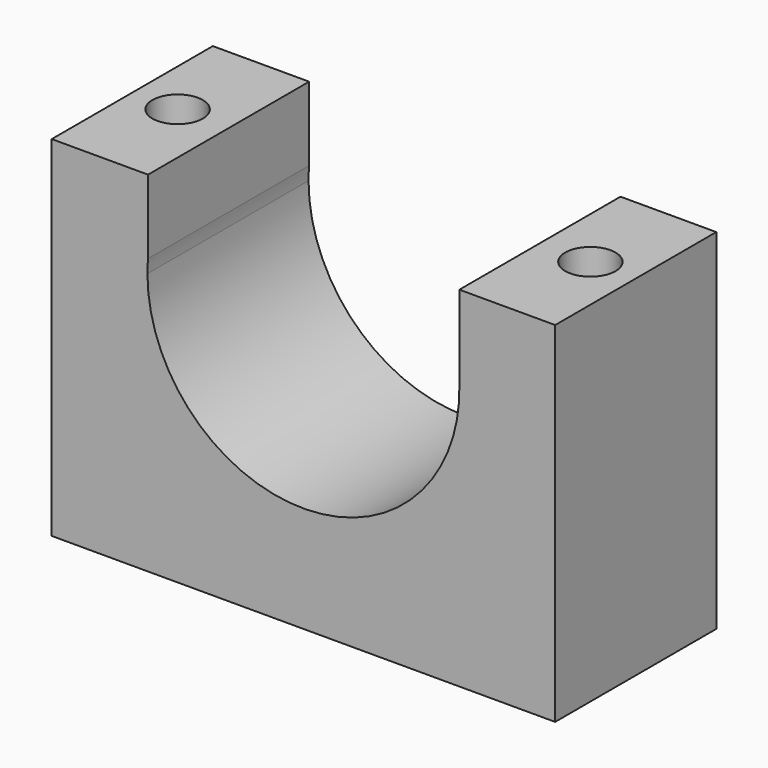
from build123d import *

# Parameters (mm, degrees)
F0_W     = 50
F0_H     = 20
F1_DEPTH = 60
F2_W     = 9
F2_H     = 25.2990102768
F2_W_2   = 32
F3_DEPTH = 25
F4_R     = 2.5
F5_DEPTH = 60
F7_DEPTH = 25
F9_DEPTH = 25


with BuildPart() as f1:
    # F0 (on Top) → F1 (new body)
    with BuildSketch(Plane.XY):
        with Locations((3.2706648111, 10)):
            Rectangle(F0_W, F0_H)
        with Locations((3.2706648111, 10)):
            Rectangle(F0_W, F0_H)
    extrude(amount=F1_DEPTH)

    # F2 (on face) → F3 (cut)
    with BuildSketch(Plane.XZ):
        with Locations((-17.2293351889, 47.3504948616)):
            Rectangle(F2_W, F2_H)
        with Locations((23.7706648111, 47.3504948616)):
            Rectangle(F2_W, F2_H)
        with Locations((3.2706648111, 47.3504948616)):
            Rectangle(F2_W_2, F2_H)
    extrude(amount=-F3_DEPTH, mode=Mode.SUBTRACT)

    # F4 (on face) → F5 (cut)
    with BuildSketch(Plane(origin=(0, 0, 0), x_dir=(1, 0, 0), z_dir=(0, 0, -1))):
        with Locations((23.7706648111, -10)):
            Circle(F4_R)
        with Locations((-17.2293351889, -10)):
            Circle(F4_R)
    extrude(amount=-F5_DEPTH, mode=Mode.SUBTRACT)

    # F6 (on face) → F7 (cut)
    with BuildSketch(Plane(origin=(0, 20, 0), x_dir=(-1, 0, 0), z_dir=(0, 1, 0))):
        with BuildLine():
            Line((-16.1088471688, 34.7009897232), (9.5675175466, 34.7009897232))
            ThreePointArc((9.5675175466, 34.7009897232), (-3.2706648111, 41.520220155), (-16.1088471688, 34.7009897232))
        make_face()
        with BuildLine():
            ThreePointArc((12.2238130515, 26.0257422924), (11.5448638087, 30.562145708), (9.5675175466, 34.7009897232))
            Line((9.5675175466, 34.7009897232), (-16.1088471688, 34.7009897232))
            ThreePointArc((-16.1088471688, 34.7009897232), (-7.8070682267, 11.2102136725), (12.2238130515, 26.0257422924))
        make_face()
    extrude(amount=-F7_DEPTH, mode=Mode.SUBTRACT)

    # F8 (on face) → F9 (cut)
    with BuildSketch(Plane(origin=(0, 20, 0), x_dir=(-1, 0, 0), z_dir=(0, 1, 0))):
        with BuildLine():
            Line((-18.7576970823, 34.7009897232), (-18.7576970823, 26.5060293604))
            ThreePointArc((-18.7576970823, 26.5060293604), (-18.0140969007, 30.7912490289), (-16.1088471688, 34.7009897232))
            Line((-16.1088471688, 34.7009897232), (-18.7576970823, 34.7009897232))
        make_face()
        with BuildLine():
            ThreePointArc((9.5675175466, 34.7009897232), (11.3354625842, 31.1968047313), (12.1661882356, 27.3608124208))
            Line((12.1661882356, 27.3608124208), (12.1661882356, 34.7009897232))
            Line((12.1661882356, 34.7009897232), (9.5675175466, 34.7009897232))
        make_face()
    extrude(amount=-F9_DEPTH, mode=Mode.SUBTRACT)


solid = f1.part
